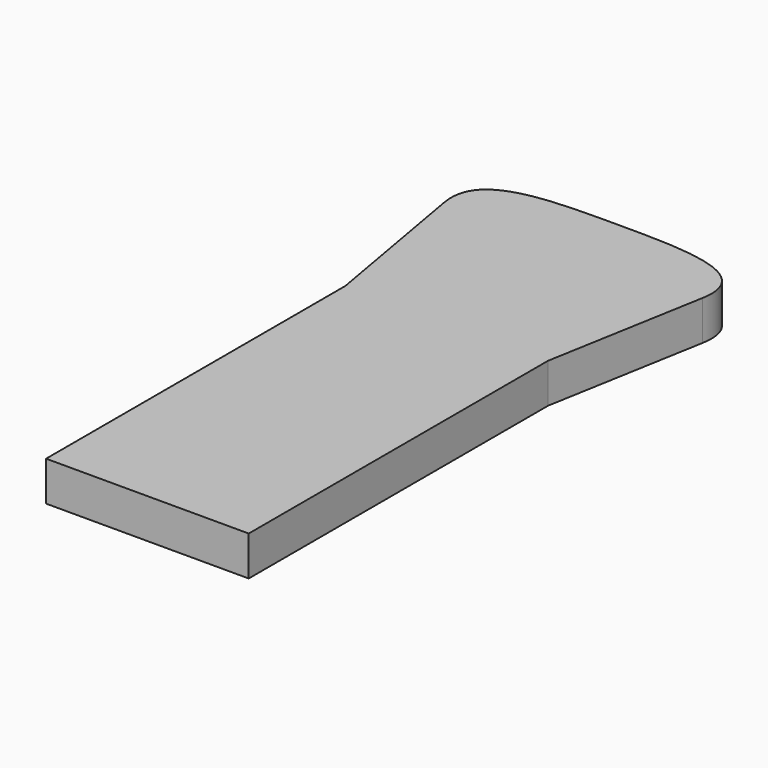
from build123d import *

# Parameters (mm, degrees)
F1_DEPTH = 12.7


with BuildPart() as f1:
    # F0 (on Top) → F1 (new body)
    with BuildSketch(Plane.XY):
        with BuildLine():
            Line((-32.5, 60), (-32.5, -60))
            Line((-32.5, -60), (32.5, -60))
            Line((32.5, -60), (32.5, 60))
            Line((32.5, 60), (41.457411, 110.8))
            add(Edge.make_bspline(
                [(-41.457411, 110.8), (-44.592504, 128.58), (0, 128.58), (44.592504, 128.58), (41.457411, 110.8)],
                knots=[0, 0, 0, 0, 45.10926, 90.218519, 90.218519, 90.218519, 90.218519], degree=3))
            Line((-41.457411, 110.8), (-32.5, 60))
        make_face()
    extrude(amount=F1_DEPTH)


solid = f1.part
